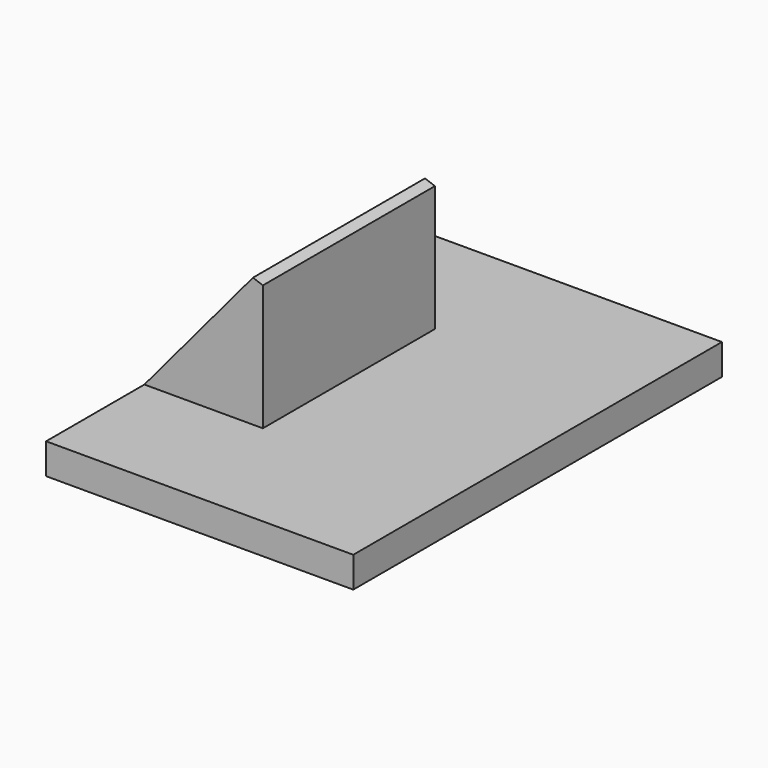
from build123d import *

# Parameters (mm, degrees)
F0_W     = 20
F0_H     = 30
F1_DEPTH = 2
F3_START = -8
F3_DEPTH = 14
F4_SIZE  = 1


with BuildPart() as f1:
    # F0 (on Top) → F1 (new body)
    with BuildSketch(Plane.XY):
        with Locations((10, 15)):
            Rectangle(F0_W, F0_H)
    extrude(amount=F1_DEPTH)

    # F2 (on face) → F3 (join)
    with BuildSketch(Plane.XZ.offset(F3_START)):
        Polygon((7.7134513162, 11.1925333174), (0, 2), (7.7134513162, 2), align=None)
    extrude(amount=-F3_DEPTH)

    # F4
    f4_edges = [f1.edges().sort_by_distance(p)[0] for p in [
        (7.713451, 15, 11.192533),
    ]]
    chamfer(f4_edges, length=F4_SIZE)


solid = f1.part
